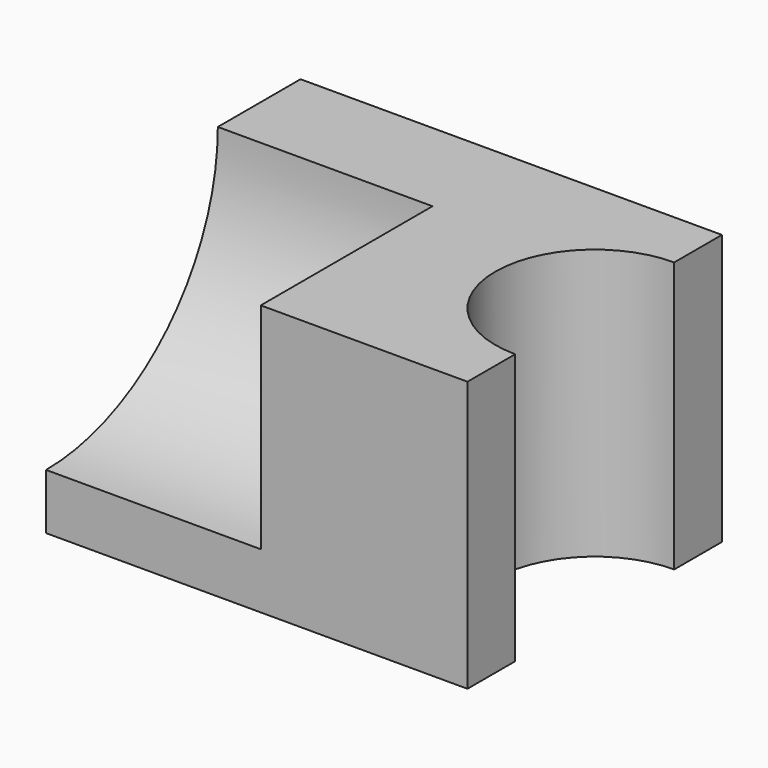
from build123d import *

# Parameters (mm, degrees)
F0_W     = 1346.2
F0_H     = 863.6
F1_DEPTH = 1016
F2_R     = 317.5
F3_DEPTH = 863.6
F4_R     = 685.8
F5_DEPTH = 685.8


with BuildPart() as f1:
    # F0 (on Front) → F1 (new body)
    with BuildSketch(Plane.XZ):
        with Locations((2.302447, 20.795441)):
            Rectangle(F0_W, F0_H)
    extrude(amount=F1_DEPTH)

    # F2 (on face) → F3 (cut)
    with BuildSketch(Plane.XY.offset(452.595441)):
        with Locations((675.402447, -508)):
            Circle(F2_R)
    extrude(amount=-F3_DEPTH, mode=Mode.SUBTRACT)

    # F4 (on face) → F5 (cut)
    with BuildSketch(Plane(origin=(-670.797553, 0, 0), x_dir=(0, -1, 0), z_dir=(-1, 0, 0))):
        with Locations((1016, 452.595441)):
            Circle(F4_R)
    extrude(amount=-F5_DEPTH, mode=Mode.SUBTRACT)


solid = f1.part
